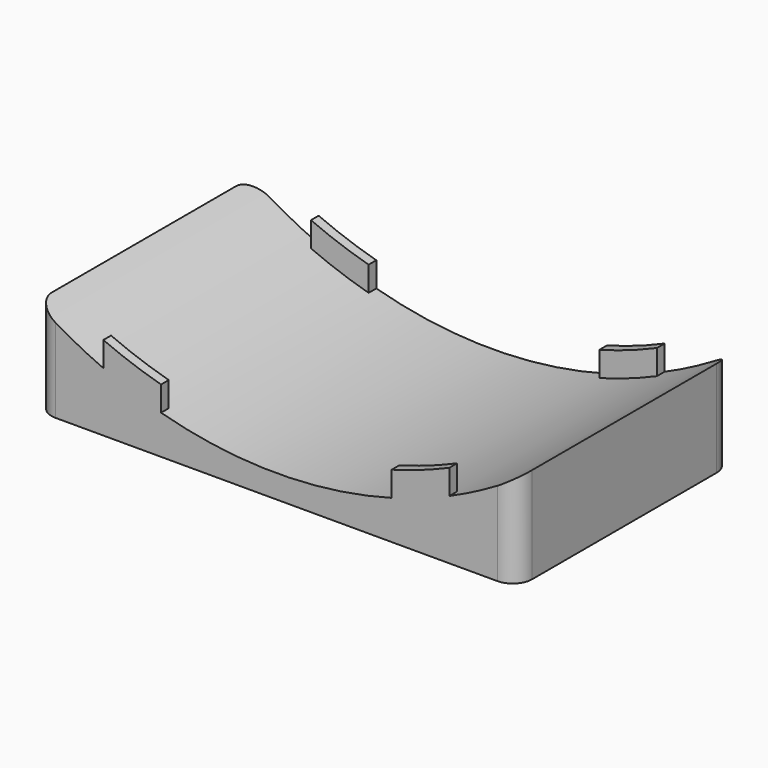
from build123d import *

# Parameters (mm, degrees)
F1_DEPTH      = 14
F1_DEPTH_BACK = 14
F3_W          = 6
F3_H          = 1
F4_DEPTH      = 10
F5_R          = 45
F6_DEPTH      = 25
F6_DEPTH_BACK = 25
F7_R          = 2


with BuildPart() as f1:
    # F0 (on Front) → F1 (new body, two sides)
    with BuildSketch(Plane.XZ) as f1_sk:
        with BuildLine():
            Line((-25, 10), (-25, 0))
            Line((-25, 0), (25, 0))
            Line((25, 0), (25, 10))
            ThreePointArc((25, 10), (0, 2.416574), (-25, 10))
        make_face()
    extrude(amount=F1_DEPTH)
    extrude(f1_sk.sketch, amount=-F1_DEPTH_BACK)

    # F3 (on offset) → F4 (join)
    with BuildSketch(Plane.XY.offset(10)):
        with Locations((-15, -13.5)):
            Rectangle(F3_W, F3_H)
        with Locations((-15, 13.5)):
            Rectangle(F3_W, F3_H)
        with Locations((15, -13.5)):
            Rectangle(F3_W, F3_H)
        with Locations((15, 13.5)):
            Rectangle(F3_W, F3_H)
    extrude(amount=-F4_DEPTH)

    # F5 (on Front) → F6 (cut, two sides)
    with BuildSketch(Plane.XZ) as f6_sk:
        with Locations((0, 50)):
            Circle(F5_R)
    extrude(amount=F6_DEPTH, mode=Mode.SUBTRACT)
    extrude(f6_sk.sketch, amount=-F6_DEPTH_BACK, mode=Mode.SUBTRACT)

    # F7
    f7_edges = [f1.edges().sort_by_distance(p)[0] for p in [
        (-25, 14, 5),
        (-25, -14, 5),
        (25, -14, 5),
        (25, 14, 5),
    ]]
    fillet(f7_edges, radius=F7_R)


solid = f1.part
